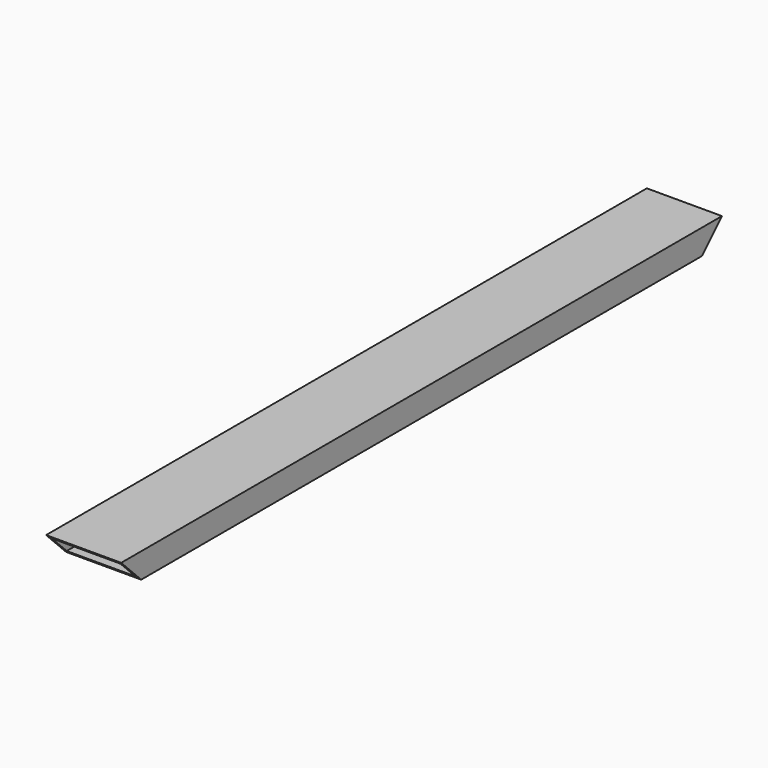
from build123d import *

# Parameters (mm, degrees)
F0_W          = 76.2
F0_H          = 25.4
F0_W_2        = 69.85
F0_H_2        = 19.05
F1_DEPTH      = 381
F1_DEPTH_BACK = 381
F3_DEPTH      = 76.201


with BuildPart() as f1:
    # F0 (on Front) → F1 (new body, two sides)
    with BuildSketch(Plane.XZ) as f1_sk:
        with Locations((38.1, -12.7)):
            Rectangle(F0_W, F0_H)
        with Locations((38.1, -12.7)):
            Rectangle(F0_W_2, F0_H_2, mode=Mode.SUBTRACT)
    extrude(amount=-F1_DEPTH)
    extrude(f1_sk.sketch, amount=F1_DEPTH_BACK)

    # F2 (on face) → F3 (cut, through all)
    with BuildSketch(Plane.YZ.offset(76.2)):
        Polygon((-355.6, -25.4), (-381, 0), (-381, -25.4), align=None)
        Polygon((381, -25.4), (381, 0), (355.6, -25.4), align=None)
    extrude(amount=-F3_DEPTH, mode=Mode.SUBTRACT)


solid = f1.part
